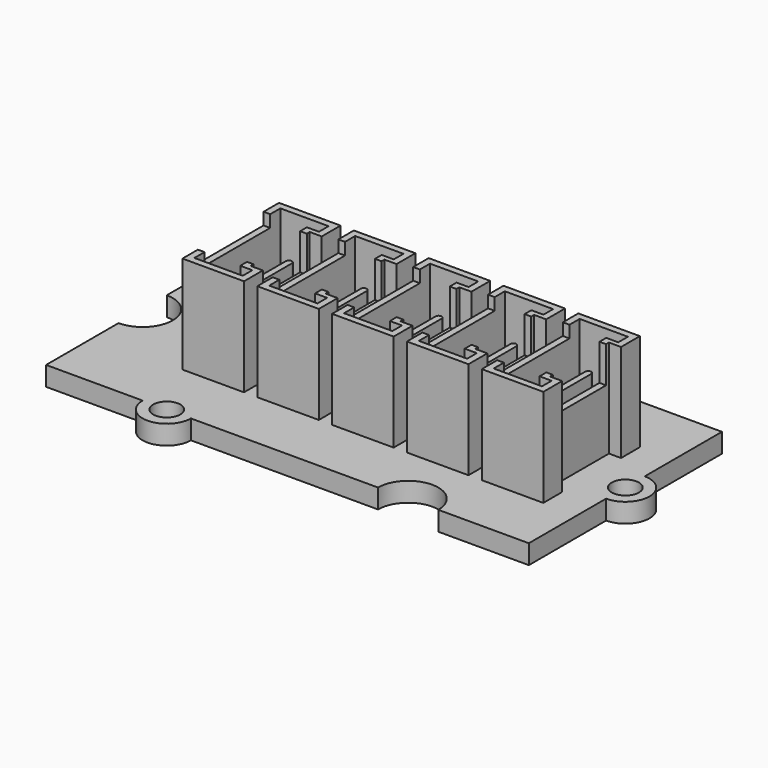
from build123d import *

# Parameters (mm, degrees)
PAD_DEPTH               = 1.6
SKETCH001_R             = 1.125
POCKET_DEPTH            = 1.601
PAD005_DEPTH            = 8.1
POCKET003_DEPTH         = 7
SKETCH010_W             = 6.8
SKETCH010_H             = 5
POCKET004_DEPTH         = 1
SKETCH011_W             = 5.5
SKETCH011_H             = 3
POCKET005_DEPTH         = 3
PAD006_DEPTH            = 4
PAD007_DEPTH            = 3.4
BODY005_PLACEMENT_ANGLE = 90


with BuildPart() as obj1:
    # Sketch → Pad (new body)
    with BuildSketch(Plane.XY):
        with BuildLine():
            Line((-20, 10), (-12, 10))
            ThreePointArc((-8, 10), (-10, 12), (-12, 10))
            Line((-8, 10), (0, 10))
            Line((0, 10), (7.5, 10))
            ThreePointArc((7.5, 10), (10, 7.5), (12.5, 10))
            Line((12.5, 10), (20, 10))
            Line((20, 10), (20, 2))
            ThreePointArc((20, -2), (22, 0), (20, 2))
            Line((20, -10), (20, -2))
            Line((20, -10), (12.5, -10))
            ThreePointArc((12.5, -10), (10, -7.5), (7.5, -10))
            Line((7.5, -10), (0, -10))
            Line((0, -10), (-8, -10))
            ThreePointArc((-12, -10), (-10, -12), (-8, -10))
            Line((-12, -10), (-20, -10))
            Line((-20, -10), (-20, -2.5))
            ThreePointArc((-20, -2.5), (-17.5, 0), (-20, 2.5))
            Line((-20, 10), (-20, 2.5))
        make_face()
    extrude(amount=PAD_DEPTH)

    # Sketch001 → Pocket (cut, through all)
    with BuildSketch(Plane.XY):
        with Locations((-10, 10)):
            Circle(SKETCH001_R)
        with Locations((-10, -10)):
            Circle(SKETCH001_R)
        with Locations((20, 0)):
            Circle(SKETCH001_R)
    extrude(amount=POCKET_DEPTH, mode=Mode.SUBTRACT)


with BuildPart() as obj2:
    # Sketch008 → Pad005 (new body)
    with BuildSketch(Plane.XY):
        Polygon((-5, 0), (-3.05, 0), (-3.05, 1), (3.05, 1), (3.05, 0), (5, 0), (5, 5.1), (-5, 5.1), align=None)
    extrude(amount=PAD005_DEPTH)

    # Sketch009 (on Face10 of Pad005) → Pocket003 (cut)
    with BuildSketch(Plane.XY.offset(8.1)):
        Polygon((-4.45, 0.55), (-3.45, 0.55), (-3.45, 1.55), (3.45, 1.55), (3.45, 0.55), (4.45, 0.55), (4.45, 4.55), (-4.45, 4.55), align=None)
    extrude(amount=-POCKET003_DEPTH, mode=Mode.SUBTRACT)

    # Sketch010 (on Face5 of Pocket003) → Pocket004 (cut)
    with BuildSketch(Plane.XY.offset(8.1)):
        with Locations((0, 5.5)):
            Rectangle(SKETCH010_W, SKETCH010_H)
    extrude(amount=-POCKET004_DEPTH, mode=Mode.SUBTRACT)

    # Sketch011 (on Face5 of Pocket004) → Pocket005 (cut)
    with BuildSketch(Plane.XY.offset(8.1)):
        with Locations((0, 1.5)):
            Rectangle(SKETCH011_W, SKETCH011_H)
    extrude(amount=-POCKET005_DEPTH, mode=Mode.SUBTRACT)

    # Sketch012 (on Face26 of Pocket005) → Pad006 (join)
    with BuildSketch(Plane.XY.offset(1.1)):
        with BuildLine():
            ThreePointArc((-3.4, 3.25), (-3.65, 3), (-3.4, 2.75))
            Line((-3.4, 2.75), (3.4, 2.75))
            ThreePointArc((3.4, 2.75), (3.65, 3), (3.4, 3.25))
            Line((-3.4, 3.25), (3.4, 3.25))
        make_face()
    extrude(amount=PAD006_DEPTH)

    # Sketch013 → Pad007 (join)
    with BuildSketch(Plane.XY):
        with BuildLine():
            ThreePointArc((-3, 3.75), (-3.75, 3), (-3, 2.25))
            Line((-3, 2.25), (3, 2.25))
            ThreePointArc((3, 2.25), (3.75, 3), (3, 3.75))
            Line((-3, 3.75), (3, 3.75))
        make_face()
    extrude(amount=-PAD007_DEPTH)


with BuildPart() as obj2_1:
    # Body005 placement: moved
    add(obj2.part.moved(Location((-13.8, 0, 1.6))).rotate(Axis((-13.8, 0, 1.6), (0, 0, 1)), BODY005_PLACEMENT_ANGLE))


with BuildPart() as obj3:
    # Body006 base: copy of obj2
    add(obj2_1.part)


with BuildPart() as obj3_1:
    # Clone placement: moved
    add(obj3.part.moved(Location((-0.2, 0, 0))))


with BuildPart() as obj3_2:
    # Body006 placement: moved
    add(obj3_1.part.moved(Location((6.4, 0, 0))))


with BuildPart() as obj4:
    # Body007 base: copy of obj2
    add(obj2_1.part)


with BuildPart() as obj4_1:
    # Clone001 placement: moved
    add(obj4.part.moved(Location((-0.2, 0, 0))))


with BuildPart() as obj4_2:
    # Body007 placement: moved
    add(obj4_1.part.moved(Location((12.6, 0, 0))))


with BuildPart() as obj5:
    # Body008 base: copy of obj2
    add(obj2_1.part)


with BuildPart() as obj5_1:
    # Clone002 placement: moved
    add(obj5.part.moved(Location((-0.2, 0, 0))))


with BuildPart() as obj5_2:
    # Body008 placement: moved
    add(obj5_1.part.moved(Location((18.8, 0, 0))))


with BuildPart() as obj6:
    # Body009 base: copy of obj2
    add(obj2_1.part)


with BuildPart() as obj6_1:
    # Clone003 placement: moved
    add(obj6.part.moved(Location((-0.2, 0, 0))))


with BuildPart() as obj6_2:
    # Body009 placement: moved
    add(obj6_1.part.moved(Location((25, 0, 0))))


with BuildPart() as obj7:
    # Body010 base: copy of obj2
    add(obj2_1.part)


with BuildPart() as obj7_1:
    # Clone004 placement: moved
    add(obj7.part.moved(Location((-0.2, 0, 0))))


with BuildPart() as obj7_2:
    # Body010 placement: moved
    add(obj7_1.part.moved(Location((31.2, 0, 0))))


solid = Compound([obj1.part, obj3_2.part, obj4_2.part, obj5_2.part, obj6_2.part, obj7_2.part])
